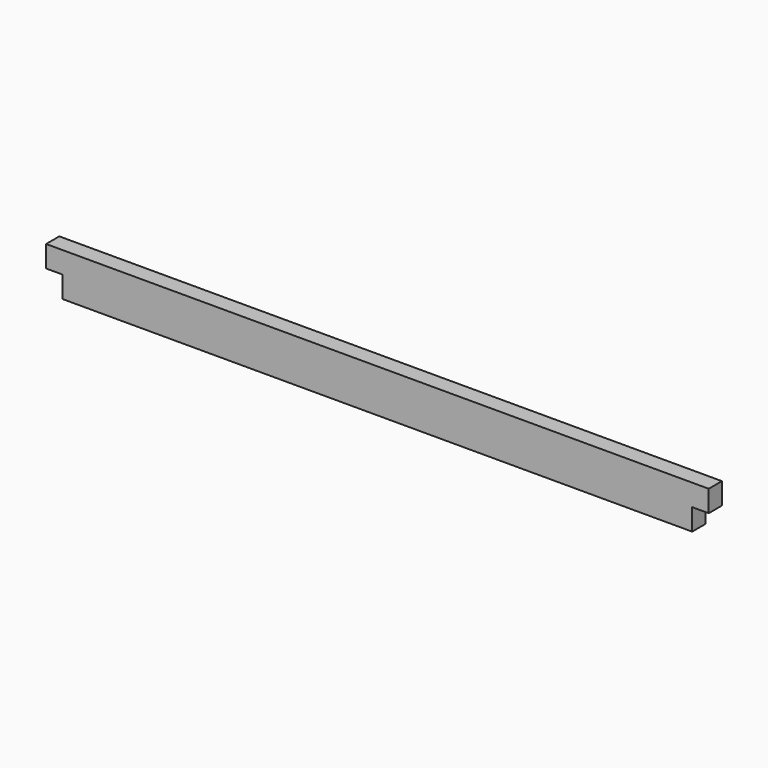
from build123d import *

# Parameters (mm, degrees)
F0_W     = 682.625
F0_H     = 44.45
F1_DEPTH = 17.018
F2_W     = 17.018
F2_H     = 22.225
F3_DEPTH = 17.019


with BuildPart() as f1:
    # F0 (on Front) → F1 (new body)
    with BuildSketch(Plane.XZ):
        Rectangle(F0_W, F0_H)
    extrude(amount=F1_DEPTH)

    # F2 (on face) → F3 (cut, through all)
    with BuildSketch(Plane.XZ):
        with Locations((-332.8035, -11.1125)):
            Rectangle(F2_W, F2_H)
        with Locations((332.8035, -11.1125)):
            Rectangle(F2_W, F2_H)
    extrude(amount=F3_DEPTH, mode=Mode.SUBTRACT)


solid = f1.part
